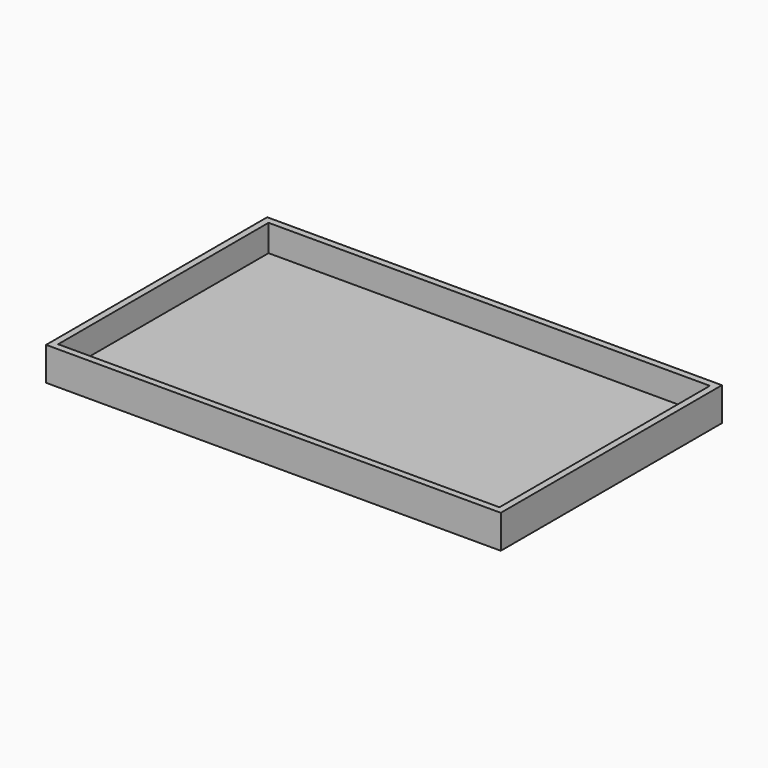
from build123d import *

# Parameters (mm, degrees)
SKETCH_W      = 102
SKETCH_H      = 62
PAD_DEPTH     = 1.5
SKETCH001_W   = 102
SKETCH001_H   = 62
SKETCH001_W_2 = 99
SKETCH001_H_2 = 59
PAD001_DEPTH  = 7.5


with BuildPart() as part:
    # Sketch → Pad (new body)
    with BuildSketch(Plane.XY):
        with Locations((0, 31)):
            Rectangle(SKETCH_W, SKETCH_H)
    extrude(amount=PAD_DEPTH)

    # Sketch001 → Pad001 (join)
    with BuildSketch(Plane.XY):
        with Locations((0, 31)):
            Rectangle(SKETCH001_W, SKETCH001_H)
        with Locations((0, 31)):
            Rectangle(SKETCH001_W_2, SKETCH001_H_2, mode=Mode.SUBTRACT)
    extrude(amount=PAD001_DEPTH)


solid = part.part
